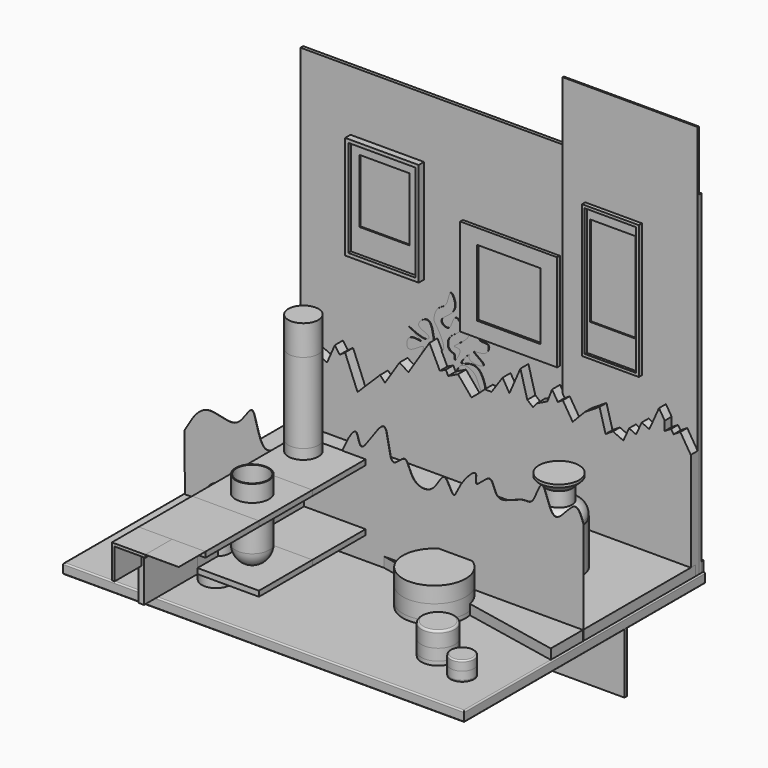
from build123d import *

# Parameters (mm, degrees)
F0_W           = 600
F0_H           = 450
F1_DEPTH       = 15
F2_R           = 2
F3_SIZE        = 1
F4_W           = 596
F4_H           = 15
F5_DEPTH       = 15
F6_R           = 10
F7_W           = 596
F7_H           = 5
F8_DEPTH       = 500
F10_DEPTH      = 100
F12_DEPTH      = 0.5
F13_W          = 598
F13_H          = 5
F14_DEPTH      = 90
F15_W          = 201.9958044887
F15_H          = 2.2120773792
F16_DEPTH      = 590
F17_R          = 22.5
F18_DEPTH      = 15
F19_R          = 22.5
F20_DEPTH      = 120
F21_R          = 22.5
F22_DEPTH      = 45
F23_R          = 47
F24_DEPTH      = 6
F25_R          = 47
F26_DEPTH      = 22
F27_R          = 47
F28_DEPTH      = 24
F29_R          = 35
F30_DEPTH      = 16
F31_R          = 35
F32_DEPTH      = 65
F33_R          = 34.5717667148
F34_DEPTH      = 22
F35_R          = 18
F36_R          = 19.3200467826
F37_DEPTH      = 22
F38_R          = 30
F39_DEPTH      = 14
F40_SIZE       = 10
F41_R          = 35
F42_DEPTH      = 14
F43_R          = 2
F44_DEPTH      = 0.1
F45_R          = 21.5
F46_DEPTH      = 12
F47_R          = 21.5
F48_DEPTH      = 80
F49_R          = 22
F50_DEPTH      = 12
F51_R          = 7
F52_R          = 8.7693050615
F53_DEPTH      = 20
F54_R          = 3
F56_DEPTH      = 100
F57_R          = 25
F58_DEPTH      = 10
F60_R          = 25
F61_DEPTH      = 25
F61_DEPTH_BACK = 92
F62_R          = 25
F63_T          = -1.5
F64_R          = 25
F65_DEPTH      = 6
F66_R          = 25
F67_DEPTH      = 17
F68_R          = 25
F69_DEPTH      = 23
F70_R          = 3
F71_R          = 17.5
F72_DEPTH      = 2
F73_R          = 17.5
F74_DEPTH      = 12
F75_R          = 17.5
F76_DEPTH      = 14
F77_R          = 2
F79_DEPTH      = 15
F81_DEPTH      = 15
F83_DEPTH      = 1
F85_DEPTH      = 100
F86_W          = 100
F86_H          = 100
F87_DEPTH      = 0.1
F89_DEPTH      = 50
F90_W          = 50
F90_H          = 50
F91_DEPTH      = 0.1
F92_W          = 50
F92_H          = 50
F93_DEPTH      = 0.1
F94_R          = 17.5
F95_DEPTH      = 4
F98_W          = 110
F98_H          = 155
F98_W_2        = 100
F98_H_2        = 145
F99_DEPTH      = 10
F100_W         = 100
F100_H         = 145
F100_W_2       = 75
F100_H_2       = 95
F101_DEPTH     = 5
F102_W         = 145
F102_H         = 145
F102_W_2       = 95
F102_H_2       = 100
F103_DEPTH     = 5
F104_W         = 75
F104_H         = 95
F105_DEPTH     = 3
F106_W         = 95
F106_H         = 100
F107_DEPTH     = 2
F108_W         = 85
F108_H         = 200
F108_W_2       = 77
F108_H_2       = 192
F109_DEPTH     = 8
F110_W         = 77
F110_H         = 192
F110_W_2       = 68
F110_H_2       = 135
F111_DEPTH     = 4
F112_W         = 68
F112_H         = 135
F113_DEPTH     = 2


with BuildPart() as f1:
    # F0 (on Top) → F1 (new body)
    with BuildSketch(Plane.XY):
        Rectangle(F0_W, F0_H)
    extrude(amount=F1_DEPTH)

    # F2
    f2_edges = [f1.edges().sort_by_distance(p)[0] for p in [
        (0, -225, 15),
        (-300, 0, 15),
        (300, 0, 15),
    ]]
    fillet(f2_edges, radius=F2_R)

    # F3
    f3_edges = [f1.edges().sort_by_distance(p)[0] for p in [
        (-300, 0, 0),
        (0, -225, 0),
        (300, 0, 0),
    ]]
    chamfer(f3_edges, length=F3_SIZE)


with BuildPart() as f5:
    # F4 (on face) → F5 (new body)
    with BuildSketch(Plane.XY.offset(15)):
        with Locations((0, 217.5)):
            Rectangle(F4_W, F4_H)
    extrude(amount=F5_DEPTH)

    # F6
    f6_edges = [f5.edges().sort_by_distance(p)[0] for p in [
        (0, 210, 30),
    ]]
    fillet(f6_edges, radius=F6_R)


with BuildPart() as f8:
    # F7 (on face) → F8 (new body)
    with BuildSketch(Plane.XY.offset(15)):
        with Locations((0, 218.6916744709)):
            Rectangle(F7_W, F7_H)
    extrude(amount=F8_DEPTH)


with BuildPart() as f10:
    # F9 (on Front) → F10 (new body)
    with BuildSketch(Plane.XZ):
        Polygon((-127.1117478609, 49.0015894175), (-27.1117478609, 49.0015894175), (-27.1117478609, 57.0015894175), (-119.1117478609, 57.0015894175), (-119.1117478609, 141.0015894175), (-27.1117478609, 141.0015894175), (-27.1117478609, 149.0015894175), (-127.1117478609, 149.0015894175), align=None)
    extrude(amount=F10_DEPTH)


with BuildPart() as f12:
    # F11 (on Front) → F12 (new body)
    with BuildSketch(Plane.XZ):
        with BuildLine():
            add(Edge.make_bspline(
                [(-297.9209423065, 99.4267165661), (-288.1178349091, 117.1449878216), (-267.876418113, 151.1787400854), (-217.4053945319, 118.1268772787), (-192.7172340908, 184.4629507983), (-184.9058202785, 76.3831736013), (-127.1243869967, 162.8992716375), (-110.0272257008, 165.4211855892), (-75.9534126055, 114.1144142347), (-61.439556882, 153.1588327439), (-38.9914674571, 195.2425518642), (-36.4236453117, 140.9333386013), (8.564904271, 238.1655186377), (5.9730116954, 138.9292386947), (34.9913042384, 181.3457574512), (39.6818980289, 139.6211246069), (76.2096847958, 134.1753282168), (90.3399901364, 179.0440481843), (104.7244616607, 134.1365835635), (111.5096176443, 161.7180791908), (143.1708617519, 196.2992364683), (133.1712077148, 158.7978248058), (163.6573575106, 198.1755534091), (165.3751298566, 149.1905817046), (207.552889821, 177.1660212764), (223.9895740954, 167.1135835114), (238.5498328147, 225.6188267091), (251.3420153309, 139.9720934177), (286.6124196513, 203.2015695331), (295.0069813363, 179.8767310991), (298.7289130688, 169.5351004601)],
                knots=[0, 0, 0, 0, 0.0462913095, 0.0885865401, 0.1255392448, 0.1703697315, 0.2233486359, 0.2485477574, 0.2914976409, 0.3271987719, 0.3634382313, 0.3909276398, 0.4364114394, 0.4791258885, 0.5077741458, 0.5407120954, 0.5748834909, 0.6089816427, 0.6395983972, 0.6672269925, 0.7041796972, 0.7272718153, 0.7585376308, 0.7898034408, 0.8289734965, 0.8543527497, 0.8894765942, 0.9299913441, 0.9689265991, 1, 1, 1, 1], degree=3))
            Line((-297.9209423065, 99.4267165661), (-297.5688278675, 14.0800448135))
            Line((-297.5688278675, 14.0800448135), (298.7289130688, 14.0800448135))
            Line((298.7289130688, 14.0800448135), (298.7289130688, 169.5351004601))
        make_face()
    extrude(amount=F12_DEPTH)


with BuildPart() as f14:
    # F13 (on face) → F14 (new body)
    with BuildSketch(Plane(origin=(0, 0, 0), x_dir=(1, 0, 0), z_dir=(0, 0, -1))):
        with Locations((0, -78.4620767832)):
            Rectangle(F13_W, F13_H)
    extrude(amount=F14_DEPTH)


with BuildPart() as f16:
    # F15 (on face) → F16 (new body)
    with BuildSketch(Plane.XY.offset(15)):
        with Locations((197.0020977557, 215.2352631092)):
            Rectangle(F15_W, F15_H)
    extrude(amount=F16_DEPTH)


with BuildPart() as f18:
    # F17 (on face) → F18 (new body)
    with BuildSketch(Plane.XY.offset(149.0015894175)):
        with Locations((-96.8890413642, -29.6418536454)):
            Circle(F17_R)
    extrude(amount=F18_DEPTH)


with BuildPart() as f20:
    # F19 (on face) → F20 (new body)
    with BuildSketch(Plane.XY.offset(164.0015894175)):
        with Locations((-96.8890413642, -29.6418536454)):
            Circle(F19_R)
    extrude(amount=F20_DEPTH)


with BuildPart() as f22:
    # F21 (on face) → F22 (new body)
    with BuildSketch(Plane.XY.offset(284.0015894175)):
        with Locations((-96.8890413642, -29.6418536454)):
            Circle(F21_R)
    extrude(amount=F22_DEPTH)


with BuildPart() as f24:
    # F23 (on face) → F24 (new body)
    with BuildSketch(Plane.XY.offset(15)):
        with Locations((107.5070202351, -40.2598306537)):
            Circle(F23_R)
    extrude(amount=F24_DEPTH)


with BuildPart() as f26:
    # F25 (on face) → F26 (new body)
    with BuildSketch(Plane.XY.offset(21)):
        with Locations((107.5070202351, -40.2598306537)):
            Circle(F25_R)
    extrude(amount=F26_DEPTH)


with BuildPart() as f28:
    # F27 (on face) → F28 (new body)
    with BuildSketch(Plane.XY.offset(43)):
        with Locations((107.5070202351, -40.2598306537)):
            Circle(F27_R)
    extrude(amount=F28_DEPTH)


with BuildPart() as f30:
    # F29 (on face) → F30 (new body)
    with BuildSketch(Plane.XY.offset(15)):
        with Locations((176.5238791704, 106.622196734)):
            Circle(F29_R)
    extrude(amount=F30_DEPTH)


with BuildPart() as f32:
    # F31 (on face) → F32 (new body)
    with BuildSketch(Plane.XY.offset(31)):
        with Locations((176.5238791704, 106.622196734)):
            Circle(F31_R)
    extrude(amount=F32_DEPTH)


with BuildPart() as f34:
    # F33 (on face) → F34 (new body)
    with BuildSketch(Plane.XY.offset(96)):
        with Locations((176.5238791704, 106.622196734)):
            Circle(F33_R)
    extrude(amount=F34_DEPTH)

    # F35
    f35_edges = [f34.edges().sort_by_distance(p)[0] for p in [
        (141.952112, 106.622197, 118),
    ]]
    fillet(f35_edges, radius=F35_R)


with BuildPart() as f37:
    # F36 (on face) → F37 (new body)
    with BuildSketch(Plane.XY.offset(118)):
        with Locations((176.5238791704, 106.622196734)):
            Circle(F36_R)
    extrude(amount=F37_DEPTH)

    # F38 (on face) → F39 (join)
    with BuildSketch(Plane.XY.offset(140)):
        with Locations((176.5238791704, 106.622196734)):
            Circle(F38_R)
    extrude(amount=F39_DEPTH)

    # F40
    f40_edges = [f37.edges().sort_by_distance(p)[0] for p in [
        (146.523879, 106.622197, 140),
    ]]
    chamfer(f40_edges, length=F40_SIZE)


with BuildPart() as f42:
    # F41 (on face) → F42 (new body)
    with BuildSketch(Plane.XY.offset(15)):
        with Locations((-230.4985970259, -96.8890413642)):
            Circle(F41_R)
    extrude(amount=F42_DEPTH)

    # F43
    f43_edges = [f42.edges().sort_by_distance(p)[0] for p in [
        (-265.498597, -96.889041, 29),
    ]]
    fillet(f43_edges, radius=F43_R)


with BuildPart() as f44:
    # F44 (new): a face of the model
    f44_faces = [f42.part.faces().sort_by_distance(p)[0] for p in [
        (-230.4985970259, -96.8890413642, 29),
    ]]
    extrude(f44_faces, amount=F44_DEPTH)


with BuildPart() as f46:
    # F45 (on face) → F46 (new body)
    with BuildSketch(Plane.XY.offset(15)):
        with Locations((-134.0519636869, -146.4395970106)):
            Circle(F45_R)
    extrude(amount=F46_DEPTH)


with BuildPart() as f48:
    # F47 (on face) → F48 (new body)
    with BuildSketch(Plane.XY.offset(27)):
        with Locations((-134.0519636869, -146.4395970106)):
            Circle(F47_R)
    extrude(amount=F48_DEPTH)


with BuildPart() as f50:
    # F49 (on face) → F50 (new body)
    with BuildSketch(Plane.XY.offset(107)):
        with Locations((-134.0519636869, -146.4395970106)):
            Circle(F49_R)
    extrude(amount=F50_DEPTH)

    # F51
    f51_edges = [f50.edges().sort_by_distance(p)[0] for p in [
        (-156.051964, -146.439597, 119),
    ]]
    fillet(f51_edges, radius=F51_R)

    # F52 (on face) → F53 (join)
    with BuildSketch(Plane.XY.offset(119)):
        with Locations((-134.0519636869, -146.4395970106)):
            Circle(F52_R)
    extrude(amount=F53_DEPTH)

    # F54
    f54_edges = [f50.edges().sort_by_distance(p)[0] for p in [
        (-142.821269, -146.439597, 139),
    ]]
    fillet(f54_edges, radius=F54_R)


with BuildPart() as f56:
    # F55 (on face) → F56 (new body)
    with BuildSketch(Plane.XZ.offset(100)):
        Polygon((-27.1117478609, 141.0015894175), (-27.1117478609, 149.0015894175), (-127.1117478609, 149.0015894175), (-127.1117478609, 49.0015894175), (-27.1117478609, 49.0015894175), (-27.1117478609, 57.0015894175), (-119.1117478609, 57.0015894175), (-119.1117478609, 141.0015894175), align=None)
    extrude(amount=F56_DEPTH)


with BuildPart() as f58:
    # F57 (on face) → F58 (new body)
    with BuildSketch(Plane.XY.offset(149.0015894175)):
        with Locations((-77.1117478609, -150)):
            Circle(F57_R)
    extrude(amount=-F58_DEPTH)


with BuildPart() as f56_1:
    add(f56.part)

    # F59: cut F58
    add(f58.part, mode=Mode.SUBTRACT)


with BuildPart() as f61:
    # F60 (on face) → F61 (new body, two sides)
    with BuildSketch(Plane.XY.offset(149.0015894175)) as f61_sk:
        with Locations((-77.1117478609, -150)):
            Circle(F60_R)
    extrude(amount=F61_DEPTH)
    extrude(f61_sk.sketch, amount=-F61_DEPTH_BACK)

    # F62
    f62_edges = [f61.edges().sort_by_distance(p)[0] for p in [
        (-102.111748, -150, 57.001589),
    ]]
    fillet(f62_edges, radius=F62_R)

    # F63
    f63_openings = [f61.faces().sort_by_distance(p)[0] for p in [
        (-77.111748, -150, 174.001589),
    ]]
    offset(amount=F63_T, openings=f63_openings)


with BuildPart() as f65:
    # F64 (on face) → F65 (new body)
    with BuildSketch(Plane.XY.offset(15)):
        with Locations((188.9114975929, -134.9367946386)):
            Circle(F64_R)
    extrude(amount=F65_DEPTH)


with BuildPart() as f67:
    # F66 (on face) → F67 (new body)
    with BuildSketch(Plane.XY.offset(21)):
        with Locations((188.9114975929, -134.9367946386)):
            Circle(F66_R)
    extrude(amount=F67_DEPTH)


with BuildPart() as f69:
    # F68 (on face) → F69 (new body)
    with BuildSketch(Plane.XY.offset(38)):
        with Locations((188.9114975929, -134.9367946386)):
            Circle(F68_R)
    extrude(amount=F69_DEPTH)

    # F70
    f70_edges = [f69.edges().sort_by_distance(p)[0] for p in [
        (163.911498, -134.936795, 61),
    ]]
    fillet(f70_edges, radius=F70_R)


with BuildPart() as f72:
    # F71 (on face) → F72 (new body)
    with BuildSketch(Plane.XY.offset(15)):
        with Locations((240.9458011389, -154.9565345049)):
            Circle(F71_R)
    extrude(amount=F72_DEPTH)


with BuildPart() as f74:
    # F73 (on face) → F74 (new body)
    with BuildSketch(Plane.XY.offset(17)):
        with Locations((240.9458011389, -154.9565345049)):
            Circle(F73_R)
    extrude(amount=F74_DEPTH)


with BuildPart() as f76:
    # F75 (on face) → F76 (new body)
    with BuildSketch(Plane.XY.offset(29)):
        with Locations((240.9458011389, -154.9565345049)):
            Circle(F75_R)
    extrude(amount=F76_DEPTH)

    # F77
    f77_edges = [f76.edges().sort_by_distance(p)[0] for p in [
        (223.445801, -154.956535, 43),
    ]]
    fillet(f77_edges, radius=F77_R)


with BuildPart() as f79:
    # F78 (on face) → F79 (new body)
    with BuildSketch(Plane.XZ.offset(-216.1916744709)):
        Polygon((-267.1650350094, 132.4585676193), (-298, 98.2942432165), (-298, 15), (298, 15), (298, 178.5606609825), (282.36829307, 203.5714245391), (272.3084692843, 197.2840428352), (268.5828467284, 203.2450466632), (259.045228222, 197.2840428352), (259.045228222, 210.9740246305), (250.4717021376, 224.6916841737), (235.9559066881, 192.1632925374), (224.4808365317, 197.2840428352), (216.2273212864, 178.7887714456), (205.6478595605, 183.5098564625), (197.1960961819, 164.5703315735), (181.6258085473, 171.5185727567), (170.508608222, 164.5703315735), (161.5553784371, 197.2840428352), (148.9574037113, 189.4103188532), (139.5166516304, 183.5098564625), (121.3303969707, 164.5703315735), (106.5611208417, 188.2012040571), (99.054954946, 183.5098564625), (90.4460996389, 197.2840428352), (83.5589915514, 179.2054176331), (67.6447592768, 171.5185727567), (62.0368160307, 164.5703315735), (53.4279458225, 171.5185727567), (43.0973097682, 209.3364596367), (26.7404597253, 171.5185727567), (16.4098087698, 188.6751651764), (0, 164.5703315735), (-10.2776940912, 164.5703315735), (-18.1514787694, 157.3128948788), (-30.0780907273, 147.352591157), (-50.259892342, 171.5185727567), (-64.9746794681, 164.3455552961), (-68.4713103776, 171.5185727567), (-77.4268805981, 167.1530008316), (-92.9261034, 198.9482342045), (-124.4228910914, 150.0066202826), (-137.6889795065, 158.5441231728), (-159.3873317249, 124.8279109858), (-166.9591367245, 132.4585676193), (-200.5337327719, 99.1429165006), (-219.1765981005, 145.2046843667), (-227.2212356329, 139.6046131849), (-234.4403093932, 149.9749870312), (-246.1607456207, 123.2477575541), align=None)
    extrude(amount=F79_DEPTH)


with BuildPart() as f81:
    # F80 (on face) → F81 (new body)
    with BuildSketch(Plane.XY.offset(15)):
        Polygon((298, 210.0142240524), (-298, 210.0142240524), (-298, 59.7261227667), (298, -60.6109537184), align=None)
    extrude(amount=F81_DEPTH)


with BuildPart() as f83:
    # F82 (on face) → F83 (new body)
    with BuildSketch(Plane.XZ.offset(-216.1916744709)):
        with BuildLine():
            add(Edge.make_bspline(
                [(-85.5533406138, 70.3018829226), (-92.7033072289, 77.2992070178), (-78.5772082178, 112.4310035386), (-78.9343733655, 143.8313175638), (-86.6581957163, 170.4158277044), (-98.7722419535, 189.2449217559), (-130.1923582537, 147.9482409051), (-105.8240728175, 189.5727256368), (-125.7526889091, 174.0048227667), (-140.0178002023, 168.4235030152), (-137.2710371208, 193.9200656777), (-103.5226279469, 182.2350652673), (-150.7606192252, 209.7699047441), (-111.4063418564, 187.6675456744), (-99.3776518743, 199.683423819), (-130.2106524068, 205.1820733538), (-104.8158674269, 225.7616003176), (-98.3838262705, 203.4408820414), (-97.3634372717, 186.2085964902), (-76.3635933384, 182.5349496671), (-91.7406446642, 214.9583145674), (-99.1116443094, 219.9553359901), (-94.196071664, 241.599287079), (-76.2769935918, 244.6699795842), (-74.4771193035, 273.9690938113), (-62.6797354674, 252.1326323539), (-70.6688579405, 236.9031029862), (-93.6497704303, 224.8208089377), (-71.18317214, 211.7930093026), (-68.7989648864, 244.5831557051), (-47.1708378014, 220.5336831673), (-78.9161516759, 210.3327423451), (-76.8824638839, 187.2278424398), (-64.5911081649, 188.0257689351), (-68.7885452214, 173.0073476856), (-51.6807793254, 199.133465855), (-76.1832603411, 194.0328628467), (-42.7399057558, 212.2241123282), (-43.2995622219, 228.9004389384), (-49.972405661, 235.6495363296), (-26.2103655545, 234.6604745646), (-33.1725579865, 212.7949703631), (-12.4748311093, 219.5022624176), (-17.564589051, 197.6694953457), (-50.4564690854, 203.4923279257), (-7.6143505663, 182.1652475732), (-50.6047112453, 183.0481482017), (-39.1531764725, 201.0860618835), (-68.7528714406, 168.2230388502), (-25.7987975751, 195.5082163074), (-15.7403430364, 135.8284379872), (-28.7921293674, 150.7021675434), (-33.0710013866, 173.2817091332), (-57.9962900619, 180.9733913399), (-67.816241091, 156.1973369429), (-74.215061347, 132.0913486404), (-72.7153342962, 85.8583074414), (-55.952394744, 66.8443680914), (-80.2821315982, 65.1432073874), (-85.5533406138, 70.3018829226)],
                knots=[0, 0, 0, 0, 0.0264800353, 0.0511775108, 0.0733156037, 0.0892508421, 0.1108894036, 0.1293790294, 0.1448240031, 0.1592005683, 0.1754828495, 0.1922044983, 0.2117965598, 0.2325239678, 0.24455573, 0.262456781, 0.2794229701, 0.2966314781, 0.3142150611, 0.3275644089, 0.34951439, 0.3627954588, 0.3802667771, 0.3975146912, 0.4152229615, 0.4304898721, 0.4483344533, 0.466563592, 0.4810606964, 0.4995503235, 0.5154254705, 0.5366125521, 0.5537011894, 0.5658694495, 0.5759869215, 0.593171667, 0.6052034368, 0.6261972071, 0.6430466697, 0.6520077077, 0.6680999639, 0.6838938979, 0.698270462, 0.7133996089, 0.7306866641, 0.7491699089, 0.7683812531, 0.7790709351, 0.7975923577, 0.8174521845, 0.8435121041, 0.8551296207, 0.875765915, 0.8939214293, 0.9133342036, 0.9352574599, 0.9638257141, 0.9804779787, 1, 1, 1, 1], degree=3))
        make_face()
    extrude(amount=F83_DEPTH)


with BuildPart() as f85:
    # F84 (on face) → F85 (new body)
    with BuildSketch(Plane.XZ.offset(200)):
        Polygon((-27.1117478609, 141.0015894175), (-27.1117478609, 149.0015894175), (-127.1117478609, 149.0015894175), (-127.1117478609, 49.0015894175), (-119.1117478609, 49.0015894175), (-119.1117478609, 141.0015894175), align=None)
    extrude(amount=F85_DEPTH)


with BuildPart() as f87:
    # F86 (on face) → F87 (new body)
    with BuildSketch(Plane.XY.offset(149.0015894175)):
        with Locations((-77.1117478609, -250)):
            Rectangle(F86_W, F86_H)
    extrude(amount=F87_DEPTH)


with BuildPart() as f89:
    # F88 (on face) → F89 (new body)
    with BuildSketch(Plane.XZ.offset(300)):
        Polygon((-77.1117478609, 149.0015894175), (-127.1117478609, 149.0015894175), (-127.1117478609, 99.0015894175), (-123.1117478609, 99.0015894175), (-123.1117478609, 145.0015894175), (-77.1117478609, 145.0015894175), align=None)
    extrude(amount=F89_DEPTH)


with BuildPart() as f91:
    # F90 (on face) → F91 (new body)
    with BuildSketch(Plane.XY.offset(149.0015894175)):
        with Locations((-102.1117478609, -325)):
            Rectangle(F90_W, F90_H)
    extrude(amount=F91_DEPTH)


with BuildPart() as f93:
    # F92 (on face) → F93 (new body)
    with BuildSketch(Plane.XY.offset(149.1015894175)):
        with Locations((-52.1117478609, -325)):
            Rectangle(F92_W, F92_H)
    extrude(amount=F93_DEPTH)


with BuildPart() as f95:
    # F94 (on face) → F95 (new body)
    with BuildSketch(Plane(origin=(0, 0, 0), x_dir=(1, 0, 0), z_dir=(0, 0, -1))):
        with Locations((269, 194)):
            Circle(F94_R)
    extrude(amount=F95_DEPTH)


with BuildPart() as f96_1:
    # F96: instance of F95
    add(f95.part.mirror(Plane.YZ))


with BuildPart() as f97_1:
    # F97: instance of F96_1
    add(f96_1.part.mirror(Plane.XZ))


with BuildPart() as f97_2:
    # F97: instance of F95
    add(f95.part.mirror(Plane.XZ))


with BuildPart() as f99:
    # F98 (on face) → F99 (new body)
    with BuildSketch(Plane.XZ.offset(-216.1916744709)):
        with Locations((-168.0884808302, 347.1031179604)):
            Rectangle(F98_W, F98_H)
        with Locations((-168.0884808302, 347.1031179604)):
            Rectangle(F98_W_2, F98_H_2, mode=Mode.SUBTRACT)
    extrude(amount=F99_DEPTH)


with BuildPart() as f101:
    # F100 (on face) → F101 (new body)
    with BuildSketch(Plane.XZ.offset(-216.1916744709)):
        with Locations((-168.0884808302, 347.1031179604)):
            Rectangle(F100_W, F100_H)
        with Locations((-168.0884808302, 358.361736536)):
            Rectangle(F100_W_2, F100_H_2, mode=Mode.SUBTRACT)
    extrude(amount=F101_DEPTH)


with BuildPart() as f103:
    # F102 (on face) → F103 (new body)
    with BuildSketch(Plane.XZ.offset(-216.1916744709)):
        with Locations((17.5894701481, 294.5786511898)):
            Rectangle(F102_W, F102_H)
        with Locations((17.5894701481, 294.5786511898)):
            Rectangle(F102_W_2, F102_H_2, mode=Mode.SUBTRACT)
    extrude(amount=F103_DEPTH)


with BuildPart() as f105:
    # F104 (on face) → F105 (new body)
    with BuildSketch(Plane.XZ.offset(-216.1916744709)):
        with Locations((-168.0884808302, 358.361736536)):
            Rectangle(F104_W, F104_H)
    extrude(amount=F105_DEPTH)


with BuildPart() as f107:
    # F106 (on face) → F107 (new body)
    with BuildSketch(Plane.XZ.offset(-216.1916744709)):
        with Locations((17.5894701481, 294.5786511898)):
            Rectangle(F106_W, F106_H)
    extrude(amount=F107_DEPTH)


with BuildPart() as f109:
    # F108 (on face) → F109 (new body)
    with BuildSketch(Plane.XZ.offset(-216.1916744709)):
        with Locations((172.2240191698, 351.1622309685)):
            Rectangle(F108_W, F108_H)
        with Locations((172.2240191698, 351.1622309685)):
            Rectangle(F108_W_2, F108_H_2, mode=Mode.SUBTRACT)
    extrude(amount=F109_DEPTH)


with BuildPart() as f111:
    # F110 (on face) → F111 (new body)
    with BuildSketch(Plane.XZ.offset(-216.1916744709)):
        with Locations((172.2240191698, 351.1622309685)):
            Rectangle(F110_W, F110_H)
        with Locations((172.2240191698, 364.8825931549)):
            Rectangle(F110_W_2, F110_H_2, mode=Mode.SUBTRACT)
    extrude(amount=F111_DEPTH)


with BuildPart() as f113:
    # F112 (on face) → F113 (new body)
    with BuildSketch(Plane.XZ.offset(-216.1916744709)):
        with Locations((172.2240191698, 364.8825931549)):
            Rectangle(F112_W, F112_H)
    extrude(amount=F113_DEPTH)


solid = Compound([f1.part, f5.part, f8.part, f10.part, f12.part, f14.part, f16.part, f18.part, f20.part, f22.part, f24.part, f26.part, f28.part, f30.part, f32.part, f34.part, f37.part, f42.part, f44.part, f46.part, f48.part, f50.part, f56_1.part, f61.part, f65.part, f67.part, f69.part, f72.part, f74.part, f76.part, f79.part, f81.part, f83.part, f85.part, f87.part, f89.part, f91.part, f93.part, f95.part, f96_1.part, f97_1.part, f97_2.part, f99.part, f101.part, f103.part, f105.part, f107.part, f109.part, f111.part, f113.part])
